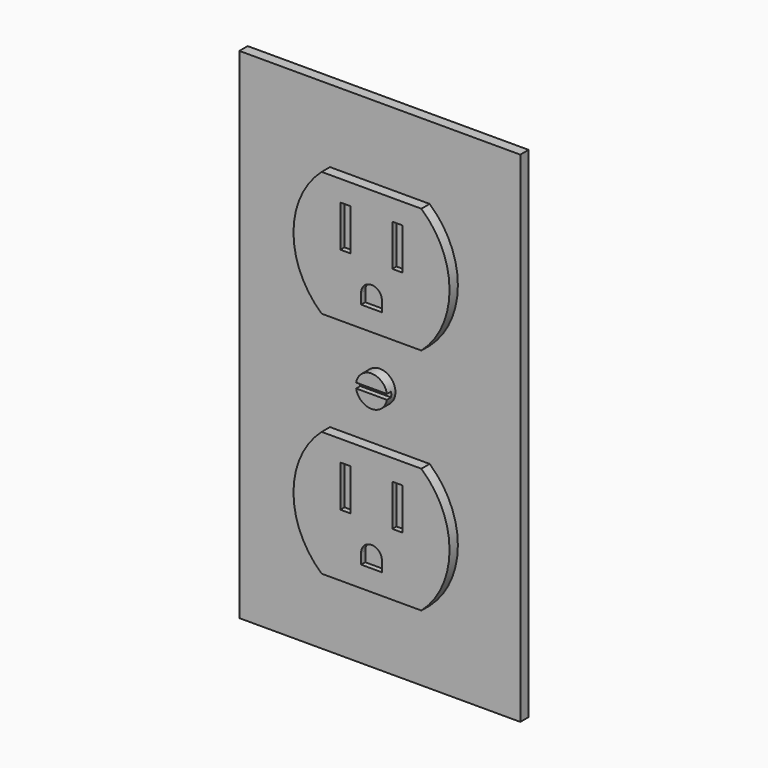
from build123d import *

# Parameters (mm, degrees)
F0_W     = 342.9
F0_H     = 609.6
F1_DEPTH = 6.35
F3_DEPTH = 12.7
F2_R     = 19.05
F4_W     = 12.7
F4_H     = 50.8
F4_W_2   = 110.2786660194
F4_H_2   = 6.35
F5_DEPTH = 6.35


with BuildPart() as f1:
    # F0 (on Front) → F1 (new body, symmetric)
    with BuildSketch(Plane.XZ):
        Rectangle(F0_W, F0_H)
    extrude(amount=F1_DEPTH, both=True)


with BuildPart() as f3:
    # F2 (on face) → F3 (new body)
    with BuildSketch(Plane.XZ.offset(6.35)):
        with BuildLine():
            Line((60.852083301, 215.9), (-60.852083301, 215.9))
            ThreePointArc((-60.852083301, 215.9), (-95.25, 139.7), (-60.852083301, 63.5))
            Line((-60.852083301, 63.5), (60.852083301, 63.5))
            ThreePointArc((60.852083301, 63.5), (95.25, 139.7), (60.852083301, 215.9))
        make_face()
    extrude(amount=F3_DEPTH)


with BuildPart() as f3b:
    # F2 (on face) → F3, piece 2 (new body)
    with BuildSketch(Plane.XZ.offset(6.35)):
        with BuildLine():
            Line((60.852083301, -63.5), (-60.852083301, -63.5))
            ThreePointArc((-60.852083301, -63.5), (-95.25, -139.7), (-60.852083301, -215.9))
            Line((-60.852083301, -215.9), (60.852083301, -215.9))
            ThreePointArc((60.852083301, -215.9), (95.25, -139.7), (60.852083301, -63.5))
        make_face()
    extrude(amount=F3_DEPTH)


with BuildPart() as f3c:
    # F2 (on face) → F3, piece 3 (new body)
    with BuildSketch(Plane.XZ.offset(6.35)):
        Circle(F2_R)
    extrude(amount=F3_DEPTH)


with BuildPart() as f5_tool:
    # F4 (on face) → F5 (new body)
    with BuildSketch(Plane.XZ.offset(19.05)):
        with Locations((-31.75, 165.1)):
            Rectangle(F4_W, F4_H)
        with Locations((31.75, 165.1)):
            Rectangle(F4_W, F4_H)
        with Locations((-31.75, -114.3)):
            Rectangle(F4_W, F4_H)
        with Locations((31.75, -114.3)):
            Rectangle(F4_W, F4_H)
        Rectangle(F4_W_2, F4_H_2)
        with BuildLine():
            Line((-12.7, 101.6), (-12.7, 88.9))
            Line((-12.7, 88.9), (12.7, 88.9))
            Line((12.7, 88.9), (12.7, 101.6))
            ThreePointArc((12.7, 101.6), (0, 114.3), (-12.7, 101.6))
        make_face()
        with BuildLine():
            Line((-12.7, -177.8), (-12.7, -190.5))
            Line((-12.7, -190.5), (12.7, -190.5))
            Line((12.7, -190.5), (12.7, -177.8))
            ThreePointArc((12.7, -177.8), (0, -165.1), (-12.7, -177.8))
        make_face()
    extrude(amount=-F5_DEPTH)


with BuildPart() as f3_1:
    add(f3.part)

    # F5: cut by f5_tool
    add(f5_tool.part, mode=Mode.SUBTRACT)


with BuildPart() as f3b_1:
    add(f3b.part)

    # F5: cut by f5_tool
    add(f5_tool.part, mode=Mode.SUBTRACT)


with BuildPart() as f3c_1:
    add(f3c.part)

    # F5: cut by f5_tool
    add(f5_tool.part, mode=Mode.SUBTRACT)


with BuildPart() as f3_2:
    # F6: moved
    add(f3_1.part)


with BuildPart() as f3b_2:
    # F6: moved
    add(f3b_1.part)


with BuildPart() as f1_1:
    # F6: moved
    add(f1.part)


with BuildPart() as f3c_2:
    # F6: moved
    add(f3c_1.part)


solid = Compound([f3_2.part, f3b_2.part, f1_1.part, f3c_2.part])
